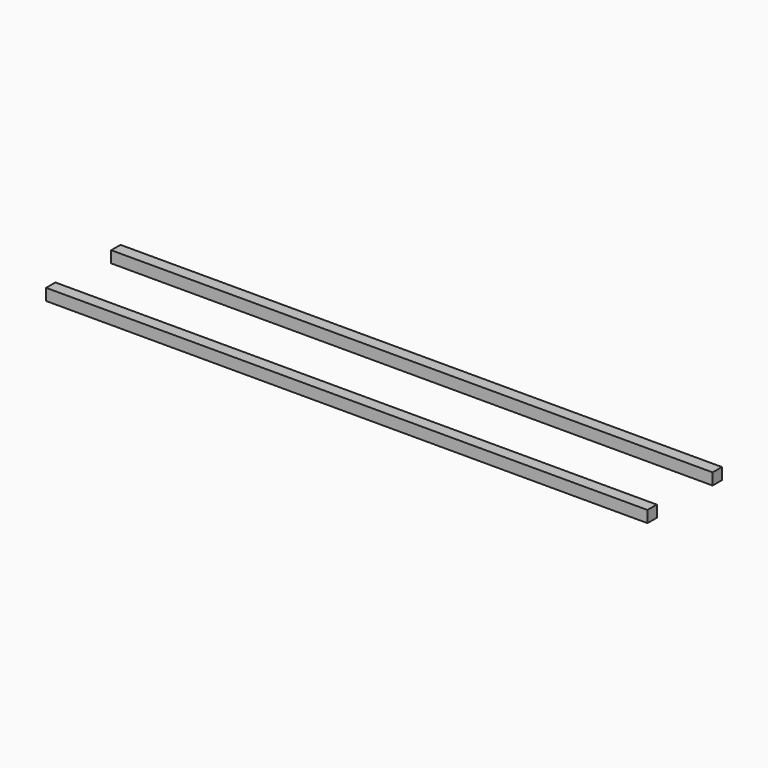
from build123d import *

# Parameters (mm, degrees)
BOX008_W     = 517
BOX008_H     = 10
BOX008_DEPTH = 10
BOX011_W     = 517
BOX011_H     = 10
BOX011_DEPTH = 10


with BuildPart() as box008:
    # Box008 → Box008 (new body)
    with BuildSketch(Plane(origin=(26.9, 0, -10), x_dir=(1, 0, 0), z_dir=(0, 0, 1))):
        with Locations((258.5, 5)):
            Rectangle(BOX008_W, BOX008_H)
    extrude(amount=BOX008_DEPTH)


with BuildPart() as kipper_frame_metal:
    # Box011 → Box011 (new body)
    with BuildSketch(Plane(origin=(26.9, 70, -10), x_dir=(1, 0, 0), z_dir=(0, 0, 1))):
        with Locations((258.5, 5)):
            Rectangle(BOX011_W, BOX011_H)
    extrude(amount=BOX011_DEPTH)

    # Fusion034: union Box008
    add(box008.part)


solid = kipper_frame_metal.part
